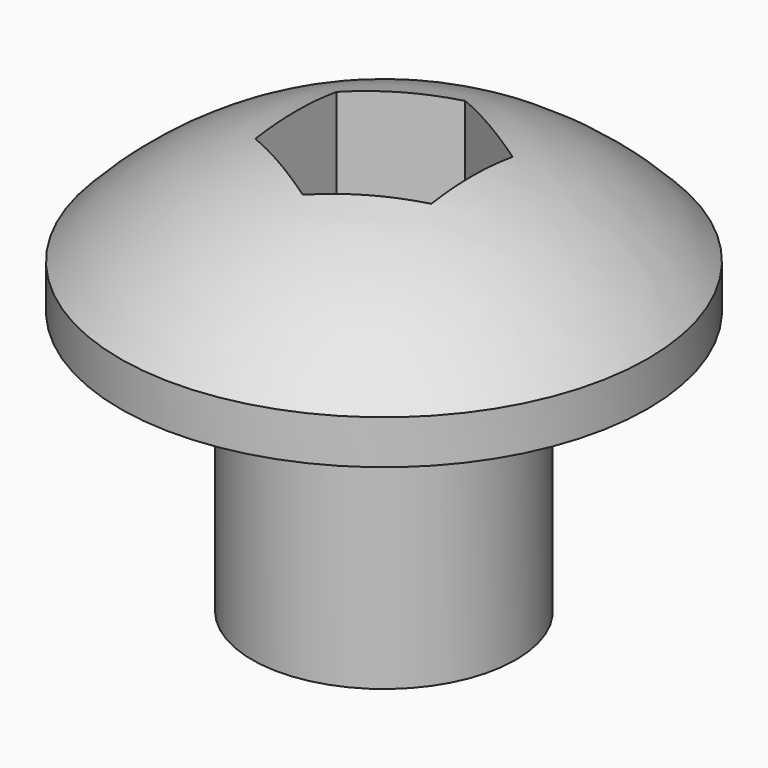
from build123d import *

# Parameters (mm, degrees)
F4_DEPTH = 2.5


with BuildPart() as f1:
    # F0 (on Front) → F1 (revolve)
    with BuildSketch(Plane.XZ):
        with BuildLine():
            Line((0, 4.8), (0, 0))
            Line((0, 0), (1.5, 0))
            Line((1.5, 0), (1.5, 3))
            Line((1.5, 3), (3, 3))
            Line((3, 3), (3, 3.5))
            ThreePointArc((3, 3.5), (1.634778, 4.461027), (0, 4.8))
        make_face()
    revolve(axis=Axis((0, 0, 0.956125), (0, 0, -1)))

    # F3 (on offset) → F4 (cut)
    with BuildSketch(Plane.XY.offset(6)):
        Polygon((1, -0.57735), (1, 0.57735), (0, 1.154701), (-1, 0.57735), (-1, -0.57735), (0, -1.154701), align=None)
    extrude(amount=-F4_DEPTH, mode=Mode.SUBTRACT)


solid = f1.part
